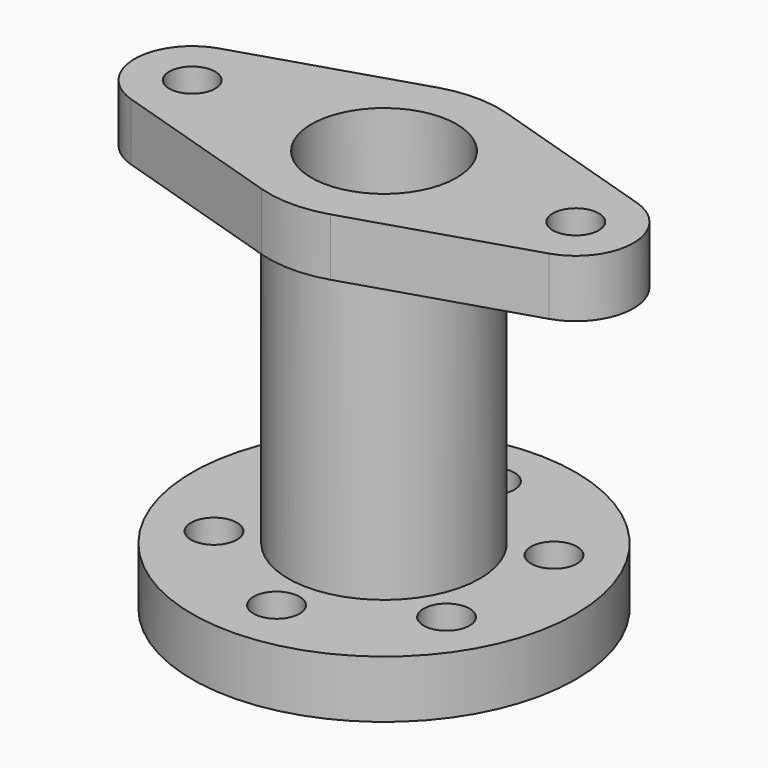
from build123d import *

# Parameters (mm, degrees)
F0_R      = 1270
F0_R_2    = 152.4
F1_DEPTH  = 381
F2_R      = 635
F3_DEPTH  = 1905
F5_DEPTH  = 381
F6_DEPTH  = 381
F7_R      = 330.2
F8_DEPTH  = 2667
F9_R      = 480.606922
F10_DEPTH = 762
F11_R     = 152.4
F12_DEPTH = 381


with BuildPart() as f1:
    # F0 (on Top) → F1 (new body)
    with BuildSketch(Plane.XY):
        Circle(F0_R)
        with Locations((-769.896584, -444.5)):
            Circle(F0_R_2, mode=Mode.SUBTRACT)
        with Locations((0, -889)):
            Circle(F0_R_2, mode=Mode.SUBTRACT)
        with Locations((769.896584, -444.5)):
            Circle(F0_R_2, mode=Mode.SUBTRACT)
        with Locations((-769.896584, 444.5)):
            Circle(F0_R_2, mode=Mode.SUBTRACT)
        with Locations((769.896584, 444.5)):
            Circle(F0_R_2, mode=Mode.SUBTRACT)
        with Locations((0, 889)):
            Circle(F0_R_2, mode=Mode.SUBTRACT)
    extrude(amount=-F1_DEPTH)

    # F2 (on face) → F3 (join)
    with BuildSketch(Plane.XY):
        Circle(F2_R)
    extrude(amount=F3_DEPTH)

    # F4 (on face) → F5 (join)
    with BuildSketch(Plane.XY.offset(1905)):
        with BuildLine():
            Line((228.6, -726.901671), (1384.3, -363.450836))
            ThreePointArc((1384.3, -363.450836), (1651, 0), (1384.3, 363.450836))
            Line((1384.3, 363.450836), (228.6, 726.901671))
            ThreePointArc((228.6, 726.901671), (614.34404, 450.805279), (762, 0))
            ThreePointArc((762, 0), (614.34404, -450.805279), (228.6, -726.901671))
        make_face()
        with BuildLine():
            ThreePointArc((-228.6, -726.901671), (0, -762), (228.6, -726.901671))
            ThreePointArc((228.6, -726.901671), (614.34404, -450.805279), (762, 0))
            ThreePointArc((762, 0), (614.34404, 450.805279), (228.6, 726.901671))
            ThreePointArc((228.6, 726.901671), (0, 762), (-228.6, 726.901671))
            ThreePointArc((-228.6, 726.901671), (-762, 0), (-228.6, -726.901671))
        make_face()
        with BuildLine():
            Line((-1384.3, -363.450836), (-228.6, -726.901671))
            ThreePointArc((-228.6, -726.901671), (-762, 0), (-228.6, 726.901671))
            Line((-228.6, 726.901671), (-1384.3, 363.450836))
            ThreePointArc((-1384.3, 363.450836), (-1651, 0), (-1384.3, -363.450836))
        make_face()
    extrude(amount=F5_DEPTH)

    # F4 (on face) → F6 (join)
    with BuildSketch(Plane.XY.offset(1905)):
        with BuildLine():
            Line((228.6, -726.901671), (1384.3, -363.450836))
            ThreePointArc((1384.3, -363.450836), (1651, 0), (1384.3, 363.450836))
            Line((1384.3, 363.450836), (228.6, 726.901671))
            ThreePointArc((228.6, 726.901671), (614.34404, 450.805279), (762, 0))
            ThreePointArc((762, 0), (614.34404, -450.805279), (228.6, -726.901671))
        make_face()
        with BuildLine():
            ThreePointArc((-228.6, -726.901671), (0, -762), (228.6, -726.901671))
            ThreePointArc((228.6, -726.901671), (614.34404, -450.805279), (762, 0))
            ThreePointArc((762, 0), (614.34404, 450.805279), (228.6, 726.901671))
            ThreePointArc((228.6, 726.901671), (0, 762), (-228.6, 726.901671))
            ThreePointArc((-228.6, 726.901671), (-762, 0), (-228.6, -726.901671))
        make_face()
        with BuildLine():
            Line((-1384.3, -363.450836), (-228.6, -726.901671))
            ThreePointArc((-228.6, -726.901671), (-762, 0), (-228.6, 726.901671))
            Line((-228.6, 726.901671), (-1384.3, 363.450836))
            ThreePointArc((-1384.3, 363.450836), (-1651, 0), (-1384.3, -363.450836))
        make_face()
    extrude(amount=F6_DEPTH)

    # F7 (on face) → F8 (cut)
    with BuildSketch(Plane.XY.offset(2286)):
        Circle(F7_R)
    extrude(amount=-F8_DEPTH, mode=Mode.SUBTRACT)

    # F9 (on face) → F10 (cut)
    with BuildSketch(Plane.XY.offset(2286)):
        Circle(F9_R)
    extrude(amount=-F10_DEPTH, mode=Mode.SUBTRACT)

    # F11 (on face) → F12 (cut)
    with BuildSketch(Plane.XY.offset(2286)):
        with Locations((1270, 0)):
            Circle(F11_R)
        with Locations((-1270, 0)):
            Circle(F11_R)
    extrude(amount=-F12_DEPTH, mode=Mode.SUBTRACT)


solid = f1.part
